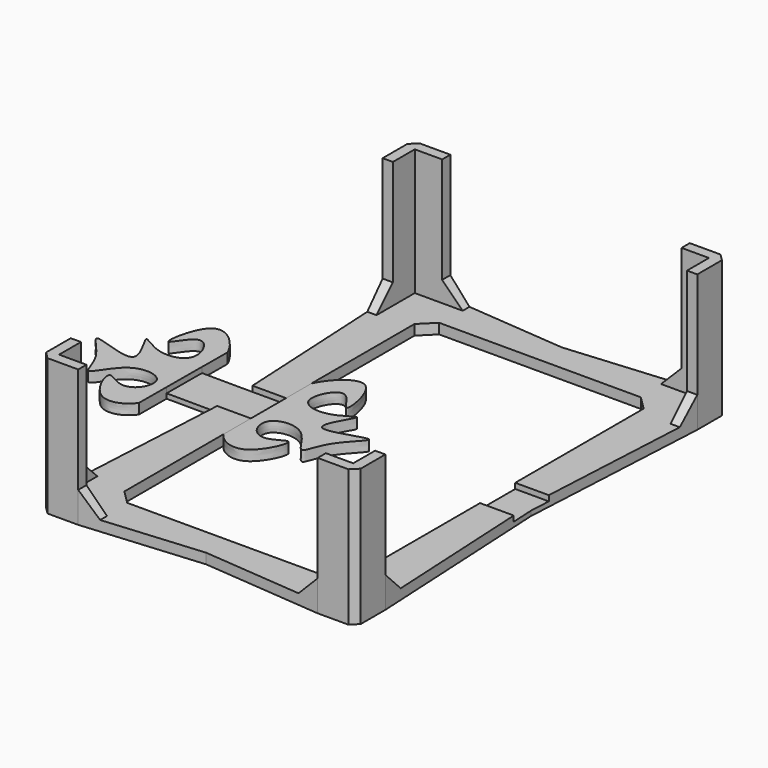
from build123d import *

# Parameters (mm, degrees)
F0_W      = 33.5
F0_H      = 57
F1_DEPTH  = 1.5
F2_DEPTH  = 20
F3_SIZE   = 3
F4_SIZE   = 2
F5_SIZE   = 1
F7_DEPTH  = 1.5
F8_DEPTH  = 0.8
F10_DEPTH = 0.8


with BuildPart() as f1:
    # F0 (on Top) → F1 (new body)
    with BuildSketch(Plane.XY):
        Polygon((21.5, 28.5000104253), (21.5, 32.5), (17.5000104253, 32.5), (17.5000104253, 34), (0, 32.5), (-17.5000104253, 34), (-17.5000104253, 32.5), (-21.5, 32.5), (-21.5, 28.5000104253), (-23, 28.5000104253), (-21.5, 0), (-23, -28.5000104253), (-21.5, -28.5000104253), (-21.5, -32.5), (-17.5000104253, -32.5), (-17.5000104253, -34), (0, -32.5), (17.5000104253, -34), (17.5000104253, -32.5), (21.5, -32.5), (21.5, -28.5000104253), (23, -28.5000104253), (21.5, 0), (23, 28.5000104253), align=None)
        Rectangle(F0_W, F0_H, mode=Mode.SUBTRACT)
        Polygon((21.5, 28.5000104253), (21.5, 32.5), (17.5000104253, 32.5), (17.5000104253, 34), (0, 32.5), (-17.5000104253, 34), (-17.5000104253, 32.5), (-21.5, 32.5), (-21.5, 28.5000104253), (-23, 28.5000104253), (-21.5, 0), (-23, -28.5000104253), (-21.5, -28.5000104253), (-21.5, -32.5), (-17.5000104253, -32.5), (-17.5000104253, -34), (0, -32.5), (17.5000104253, -34), (17.5000104253, -32.5), (21.5, -32.5), (21.5, -28.5000104253), (23, -28.5000104253), (21.5, 0), (23, 28.5000104253), align=None)
        Rectangle(F0_W, F0_H, mode=Mode.SUBTRACT)
        Polygon((17.5000104253, 32.5), (21.5, 32.5), (21.5, 28.5000104253), (23, 28.5000104253), (23, 34), (17.5000104253, 34), align=None)
        Polygon((21.5, 28.5000104253), (21.5, 32.5), (17.5000104253, 32.5), (17.5000104253, 34), (0, 32.5), (-17.5000104253, 34), (-17.5000104253, 32.5), (-21.5, 32.5), (-21.5, 28.5000104253), (-23, 28.5000104253), (-21.5, 0), (-23, -28.5000104253), (-21.5, -28.5000104253), (-21.5, -32.5), (-17.5000104253, -32.5), (-17.5000104253, -34), (0, -32.5), (17.5000104253, -34), (17.5000104253, -32.5), (21.5, -32.5), (21.5, -28.5000104253), (23, -28.5000104253), (21.5, 0), (23, 28.5000104253), align=None)
        Rectangle(F0_W, F0_H, mode=Mode.SUBTRACT)
        Polygon((21.5, 28.5000104253), (21.5, 32.5), (17.5000104253, 32.5), (17.5000104253, 34), (0, 32.5), (-17.5000104253, 34), (-17.5000104253, 32.5), (-21.5, 32.5), (-21.5, 28.5000104253), (-23, 28.5000104253), (-21.5, 0), (-23, -28.5000104253), (-21.5, -28.5000104253), (-21.5, -32.5), (-17.5000104253, -32.5), (-17.5000104253, -34), (0, -32.5), (17.5000104253, -34), (17.5000104253, -32.5), (21.5, -32.5), (21.5, -28.5000104253), (23, -28.5000104253), (21.5, 0), (23, 28.5000104253), align=None)
        Rectangle(F0_W, F0_H, mode=Mode.SUBTRACT)
        Polygon((23, -34), (23, -28.5000104253), (21.5, -28.5000104253), (21.5, -32.5), (17.5000104253, -32.5), (17.5000104253, -34), align=None)
        Polygon((21.5, 28.5000104253), (21.5, 32.5), (17.5000104253, 32.5), (17.5000104253, 34), (0, 32.5), (-17.5000104253, 34), (-17.5000104253, 32.5), (-21.5, 32.5), (-21.5, 28.5000104253), (-23, 28.5000104253), (-21.5, 0), (-23, -28.5000104253), (-21.5, -28.5000104253), (-21.5, -32.5), (-17.5000104253, -32.5), (-17.5000104253, -34), (0, -32.5), (17.5000104253, -34), (17.5000104253, -32.5), (21.5, -32.5), (21.5, -28.5000104253), (23, -28.5000104253), (21.5, 0), (23, 28.5000104253), align=None)
        Rectangle(F0_W, F0_H, mode=Mode.SUBTRACT)
        Polygon((21.5, 28.5000104253), (21.5, 32.5), (17.5000104253, 32.5), (17.5000104253, 34), (0, 32.5), (-17.5000104253, 34), (-17.5000104253, 32.5), (-21.5, 32.5), (-21.5, 28.5000104253), (-23, 28.5000104253), (-21.5, 0), (-23, -28.5000104253), (-21.5, -28.5000104253), (-21.5, -32.5), (-17.5000104253, -32.5), (-17.5000104253, -34), (0, -32.5), (17.5000104253, -34), (17.5000104253, -32.5), (21.5, -32.5), (21.5, -28.5000104253), (23, -28.5000104253), (21.5, 0), (23, 28.5000104253), align=None)
        Rectangle(F0_W, F0_H, mode=Mode.SUBTRACT)
        Polygon((-21.5, -28.5000104253), (-23, -28.5000104253), (-23, -34), (-17.5000104253, -34), (-17.5000104253, -32.5), (-21.5, -32.5), align=None)
        Polygon((21.5, 28.5000104253), (21.5, 32.5), (17.5000104253, 32.5), (17.5000104253, 34), (0, 32.5), (-17.5000104253, 34), (-17.5000104253, 32.5), (-21.5, 32.5), (-21.5, 28.5000104253), (-23, 28.5000104253), (-21.5, 0), (-23, -28.5000104253), (-21.5, -28.5000104253), (-21.5, -32.5), (-17.5000104253, -32.5), (-17.5000104253, -34), (0, -32.5), (17.5000104253, -34), (17.5000104253, -32.5), (21.5, -32.5), (21.5, -28.5000104253), (23, -28.5000104253), (21.5, 0), (23, 28.5000104253), align=None)
        Rectangle(F0_W, F0_H, mode=Mode.SUBTRACT)
        Polygon((21.5, 28.5000104253), (21.5, 32.5), (17.5000104253, 32.5), (17.5000104253, 34), (0, 32.5), (-17.5000104253, 34), (-17.5000104253, 32.5), (-21.5, 32.5), (-21.5, 28.5000104253), (-23, 28.5000104253), (-21.5, 0), (-23, -28.5000104253), (-21.5, -28.5000104253), (-21.5, -32.5), (-17.5000104253, -32.5), (-17.5000104253, -34), (0, -32.5), (17.5000104253, -34), (17.5000104253, -32.5), (21.5, -32.5), (21.5, -28.5000104253), (23, -28.5000104253), (21.5, 0), (23, 28.5000104253), align=None)
        Rectangle(F0_W, F0_H, mode=Mode.SUBTRACT)
        Polygon((-17.5000104253, 32.5), (-17.5000104253, 34), (-23, 34), (-23, 28.5000104253), (-21.5, 28.5000104253), (-21.5, 32.5), align=None)
        Polygon((21.5, 28.5000104253), (21.5, 32.5), (17.5000104253, 32.5), (17.5000104253, 34), (0, 32.5), (-17.5000104253, 34), (-17.5000104253, 32.5), (-21.5, 32.5), (-21.5, 28.5000104253), (-23, 28.5000104253), (-21.5, 0), (-23, -28.5000104253), (-21.5, -28.5000104253), (-21.5, -32.5), (-17.5000104253, -32.5), (-17.5000104253, -34), (0, -32.5), (17.5000104253, -34), (17.5000104253, -32.5), (21.5, -32.5), (21.5, -28.5000104253), (23, -28.5000104253), (21.5, 0), (23, 28.5000104253), align=None)
        Rectangle(F0_W, F0_H, mode=Mode.SUBTRACT)
    extrude(amount=F1_DEPTH)

    # F0 (on Top) → F2 (join)
    with BuildSketch(Plane.XY):
        Polygon((-17.5000104253, 32.5), (-17.5000104253, 34), (-23, 34), (-23, 28.5000104253), (-21.5, 28.5000104253), (-21.5, 32.5), align=None)
        Polygon((17.5000104253, 32.5), (21.5, 32.5), (21.5, 28.5000104253), (23, 28.5000104253), (23, 34), (17.5000104253, 34), align=None)
        Polygon((23, -34), (23, -28.5000104253), (21.5, -28.5000104253), (21.5, -32.5), (17.5000104253, -32.5), (17.5000104253, -34), align=None)
        Polygon((-21.5, -28.5000104253), (-23, -28.5000104253), (-23, -34), (-17.5000104253, -34), (-17.5000104253, -32.5), (-21.5, -32.5), align=None)
    extrude(amount=F2_DEPTH)

    # F3
    f3_edges = [f1.edges().sort_by_distance(p)[0] for p in [
        (-22.25, 28.50001, 1.5),
        (-17.50001, 33.25, 1.5),
        (22.25, 28.50001, 1.5),
        (17.50001, 33.25, 1.5),
        (-17.50001, -33.25, 1.5),
        (-22.25, -28.50001, 1.5),
        (22.25, -28.50001, 1.5),
        (17.50001, -33.25, 1.5),
    ]]
    chamfer(f3_edges, length=F3_SIZE)

    # F4
    f4_edges = [f1.edges().sort_by_distance(p)[0] for p in [
        (-16.75, 28.5, 0.75),
        (16.75, 28.5, 0.75),
        (-16.75, -28.5, 0.75),
        (16.75, -28.5, 0.75),
    ]]
    chamfer(f4_edges, length=F4_SIZE)

    # F5
    f5_edges = [f1.edges().sort_by_distance(p)[0] for p in [
        (-23, 34, 10),
        (-23, -34, 10),
        (23, -34, 10),
        (23, 34, 10),
    ]]
    chamfer(f5_edges, length=F5_SIZE)


with BuildPart() as f7:
    # F6 (on face) → F7 (new body)
    with BuildSketch(Plane.XY.offset(1.5)):
        with BuildLine():
            Line((-29.1030445489, -3.3525493938), (-29.0654373915, 3.0782243753))
            Line((-29.0654373915, 3.0782243753), (-29.0383155892, 7.7160163922))
            add(Edge.make_bspline(
                [(-29.0383155892, 7.7160163922), (-29.9406019462, 9.7841024315), (-34.8751096566, 14.8065698676), (-36.9831459513, 2.2859684659), (-33.4506196276, 10.4874996123), (-29.746410024, 3.3628928387), (-35.5278832703, 2.2792400073), (-39.9846142135, 6.2769939518), (-33.60453287, -2.6146634755), (-45.8964637825, 3.0645942509), (-39.3041907676, -2.2601786646), (-38.8222108607, -7.7586172732), (-36.0268290042, -0.996611834), (-30.2755292889, -1.7748739856), (-31.1514254061, -5.6660203725), (-33.8311714785, -6.5609362605), (-37.2848915777, -3.5670900505), (-33.9962883345, -11.6004677907), (-29.9405979657, -9.6493172605), (-29.1322118754, -8.3401233432)],
                knots=[0.0550823076, 0.0550823076, 0.0550823076, 0.0550823076, 0.1184410368, 0.1811878028, 0.229056224, 0.2813524749, 0.3350630146, 0.3790316164, 0.4338905965, 0.4970465751, 0.5513767649, 0.6000280808, 0.6553864292, 0.7078967951, 0.7504028761, 0.791228422, 0.829845547, 0.8883005368, 0.9428782945, 0.9428782945, 0.9428782945, 0.9428782945], degree=3))
            Line((-29.1322118754, -8.3401233432), (-29.1030445489, -3.3525493938))
        make_face()
        Polygon((-16.75, -0.1732275142), (-16.75, 3.0422143515), (-21.6601164862, 3.0422143515), (-21.5, 0), (-21.6783509548, -3.3886693799), (-16.75, -3.3886693799), align=None)
        Polygon((-21.5, 0), (-21.6601164862, 3.0422143515), (-22.9077713419, 3.0422143515), (-29.0654373915, 3.0782243753), (-29.1030445489, -3.3525493938), (-22.9265750814, -3.3886693799), (-21.6783509548, -3.3886693799), align=None)
        with BuildLine():
            Line((-16.75, 7.6800856718), (-16.75, 3.0422143515))
            Line((-16.75, 3.0422143515), (-16.75, -0.1732275142))
            Line((-16.75, -0.1732275142), (-16.75, -3.3886693799))
            Line((-16.75, -3.3886693799), (-16.75, -8.3763286138))
            add(Edge.make_bspline(
                [(-16.75, 7.6800856718), (-15.8356351135, 9.7428598694), (-10.8718408972, 14.736384924), (-8.8370598583, 2.2036700305), (-12.3215640546, 10.4257187945), (-16.0673742991, 3.3228956883), (-10.292337003, 2.2054519158), (-5.8123038053, 6.1770749906), (-12.2442735681, -2.6771203271), (0.0806588879, 2.9301583208), (-6.5426401383, -2.3559726002), (-7.0567661164, -7.8514986207), (-9.8125566507, -1.0732616955), (-15.5683092223, -1.8178775208), (-14.7151831125, -5.7140795243), (-12.0407162388, -6.624650994), (-8.5695474855, -3.6510529817), (-11.9050728768, -11.6650619394), (-15.949283766, -9.6902275052), (-16.75, -8.3763286138)],
                knots=[0.0550823076, 0.0550823076, 0.0550823076, 0.0550823076, 0.1184410368, 0.1811878028, 0.229056224, 0.2813524749, 0.3350630146, 0.3790316164, 0.4338905965, 0.4970465751, 0.5513767649, 0.6000280808, 0.6553864292, 0.7078967951, 0.7504028761, 0.791228422, 0.829845547, 0.8883005368, 0.9428782945, 0.9428782945, 0.9428782945, 0.9428782945], degree=3))
        make_face()
    extrude(amount=-F7_DEPTH)


with BuildPart() as f8_tool:
    # F6 (on face) → F8 (new body)
    with BuildSketch(Plane.XY.offset(1.5)):
        Polygon((-21.5, 0), (-21.6601164862, 3.0422143515), (-22.9077713419, 3.0422143515), (-29.0654373915, 3.0782243753), (-29.1030445489, -3.3525493938), (-22.9265750814, -3.3886693799), (-21.6783509548, -3.3886693799), align=None)
        Polygon((-16.75, -0.1732275142), (-16.75, 3.0422143515), (-21.6601164862, 3.0422143515), (-21.5, 0), (-21.6783509548, -3.3886693799), (-16.75, -3.3886693799), align=None)
    extrude(amount=-F8_DEPTH)


with BuildPart() as f1_1:
    add(f1.part)

    # F8: cut by f8_tool
    add(f8_tool.part, mode=Mode.SUBTRACT)

    # F6 (on face) + F9 (on face) → F10 (cut)
    with BuildSketch(Plane.XY.offset(1.5)):
        Polygon((-16.75, -0.1732275142), (-16.75, 3.0422143515), (-21.6601164862, 3.0422143515), (-21.5, 0), (-21.6783509548, -3.3886693799), (-16.75, -3.3886693799), align=None)
    with BuildSketch(Plane.XY.offset(1.5)):
        Polygon((21.6601164862, 3.0422143515), (16.75, 3.0422143515), (16.75, -3.3886693799), (21.6783509548, -3.3886693799), (21.5, 0), align=None)
    extrude(amount=-F10_DEPTH, mode=Mode.SUBTRACT)


with BuildPart() as f7_1:
    add(f7.part)

    # F8: cut by f8_tool
    add(f8_tool.part, mode=Mode.SUBTRACT)


solid = Compound([f1_1.part, f7_1.part])
